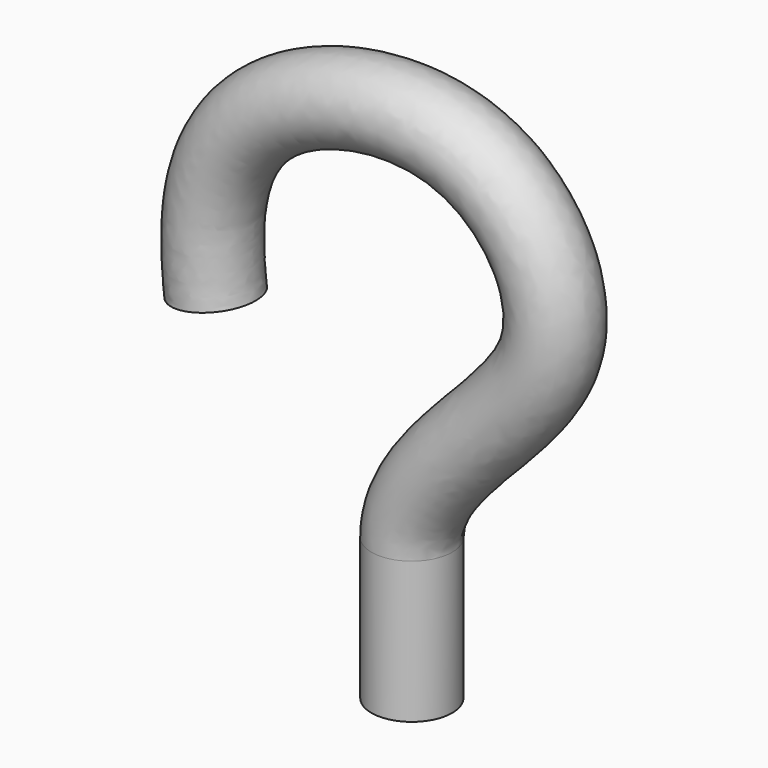
from build123d import *

# Parameters (mm, degrees)
F0_R = 12.7


with BuildPart() as f2:
    # F2: sweep along a path in F1
    with BuildLine(Plane.XZ) as f2_path:
        Line((0, 0), (0, 44.537586992))
        add(Plane.XZ * Edge.make_bspline(
            [(0, 44.537586992), (0, 67.455255341), (63.6305555032, 102.2046660488), (26.60206846, 168.5043510784), (-41.5786193546, 159.4092663403), (-65.8141058754, 124.0982128256), (-61.9460565267, 93.831967599), (-61.7345020239, 92.3481124115)],
            knots=[0, 0, 0, 0, 0.2490088668, 0.4529492743, 0.6706873462, 0.8541663612, 1, 1, 1, 1], degree=3))
    # F0 (on Top) → F2 (sweep)
    with BuildSketch(Plane.XY):
        Circle(F0_R)
    sweep(path=f2_path.line)


solid = f2.part
